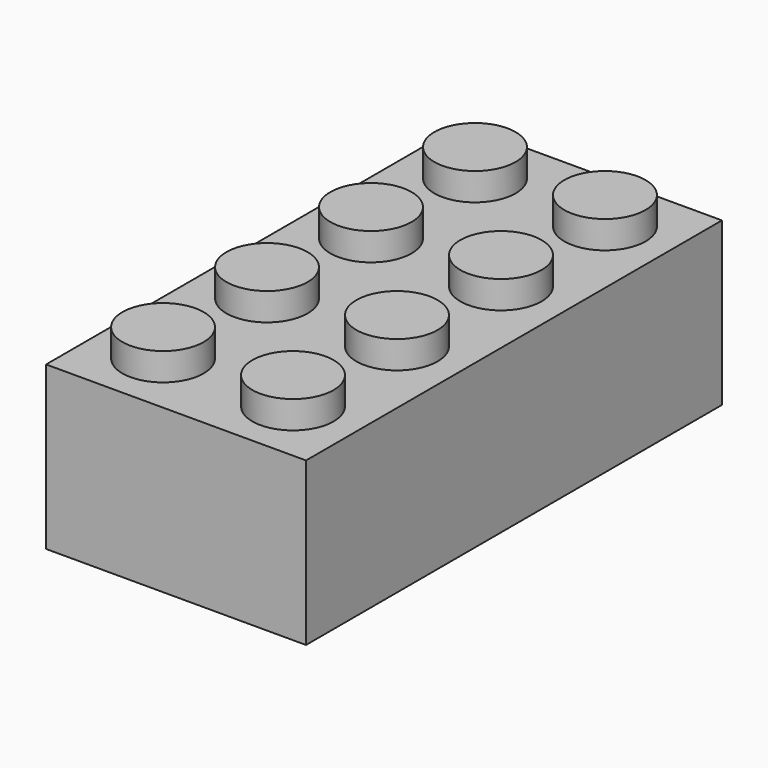
from build123d import *

# Parameters (mm, degrees)
F0_W     = 16
F0_H     = 32
F1_DEPTH = 10
F2_R     = 2.5
F3_DEPTH = 1.7
F4_T     = -1.5
F5_R     = 3
F6_DEPTH = 8.5
F7_T     = -0.5


with BuildPart() as f1:
    # F0 (on Top) → F1 (new body)
    with BuildSketch(Plane.XY):
        with Locations((8, -58.6142044663)):
            Rectangle(F0_W, F0_H)
    extrude(amount=F1_DEPTH)

    # F2 (on face) → F3 (join)
    with BuildSketch(Plane.XY.offset(10)):
        with Locations((4, -46.6142044663)):
            Circle(F2_R)
        with Locations((4, -54.6142044663)):
            Circle(F2_R)
        with Locations((4, -62.6142044663)):
            Circle(F2_R)
        with Locations((4, -70.6142044663)):
            Circle(F2_R)
        with Locations((12, -70.6142044663)):
            Circle(F2_R)
        with Locations((12, -62.6142044663)):
            Circle(F2_R)
        with Locations((12, -54.6142044663)):
            Circle(F2_R)
        with Locations((12, -46.6142044663)):
            Circle(F2_R)
    extrude(amount=F3_DEPTH)

    # F4
    f4_openings = [f1.faces().sort_by_distance(p)[0] for p in [
        (8, -58.614204, 0),
    ]]
    offset(amount=F4_T, openings=f4_openings, kind=Kind.INTERSECTION)

    # F5 (on face) → F6 (join)
    with BuildSketch(Plane(origin=(0, 0, 8.5), x_dir=(1, 0, 0), z_dir=(0, 0, -1))):
        with Locations((8, 66.6142044663)):
            Circle(F5_R)
        with Locations((8, 58.6142044663)):
            Circle(F5_R)
        with Locations((8, 50.6142044663)):
            Circle(F5_R)
    extrude(amount=F6_DEPTH)

    # F7
    f7_openings = [f1.faces().sort_by_distance(p)[0] for p in [
        (8, -66.614204, 0),
        (8, -58.614204, 0),
        (8, -50.614204, 0),
    ]]
    offset(amount=F7_T, openings=f7_openings, kind=Kind.INTERSECTION)


solid = f1.part
